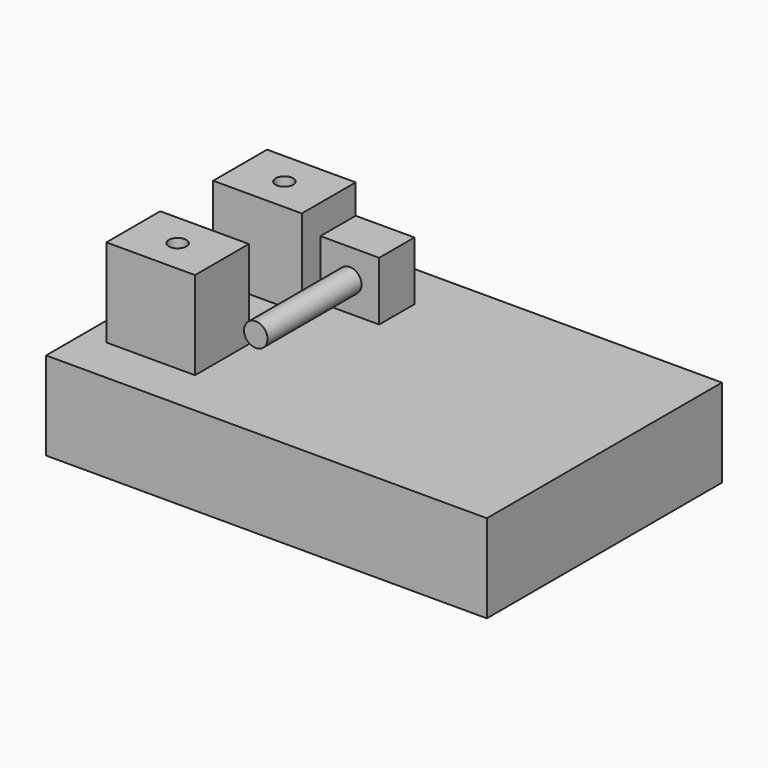
from build123d import *

# Parameters (mm, degrees)
F0_W     = 150
F0_H     = 100
F1_DEPTH = 30
F2_R     = 3
F3_DEPTH = 5
F2_W     = 30.162632
F2_H     = 22.921
F4_DEPTH = 30
F5_W     = 20
F5_H     = 20
F6_DEPTH = 15
F7_R     = 4
F8_DEPTH = 40


with BuildPart() as f1:
    # F0 (on Top) → F1 (new body)
    with BuildSketch(Plane.XY):
        Rectangle(F0_W, F0_H)
    extrude(amount=F1_DEPTH)

    # F2 (on face) → F3 (join)
    with BuildSketch(Plane.XY.offset(30)):
        with Locations((-52.058708, -22.7105)):
            Circle(F2_R)
        with Locations((-52.058708, 22.7105)):
            Circle(F2_R)
    extrude(amount=F3_DEPTH)

    # F2 (on face) → F4 (join)
    with BuildSketch(Plane.XY.offset(30)):
        with Locations((-52.058708, 22.7105)):
            Rectangle(F2_W, F2_H)
        with Locations((-52.058708, 22.7105)):
            Circle(F2_R, mode=Mode.SUBTRACT)
        with Locations((-52.058708, -22.7105)):
            Rectangle(F2_W, F2_H)
        with Locations((-52.058708, -22.7105)):
            Circle(F2_R, mode=Mode.SUBTRACT)
    extrude(amount=F4_DEPTH)

    # F5 (on face) → F6 (join)
    with BuildSketch(Plane(origin=(0, 34.171, 0), x_dir=(-1, 0, 0), z_dir=(0, 1, 0))):
        with Locations((26.977392, 40)):
            Rectangle(F5_W, F5_H)
    extrude(amount=-F6_DEPTH)

    # F7 (on face) → F8 (join)
    with BuildSketch(Plane.XZ.offset(-19.171)):
        with Locations((-26.977392, 40)):
            Circle(F7_R)
    extrude(amount=F8_DEPTH)


solid = f1.part
